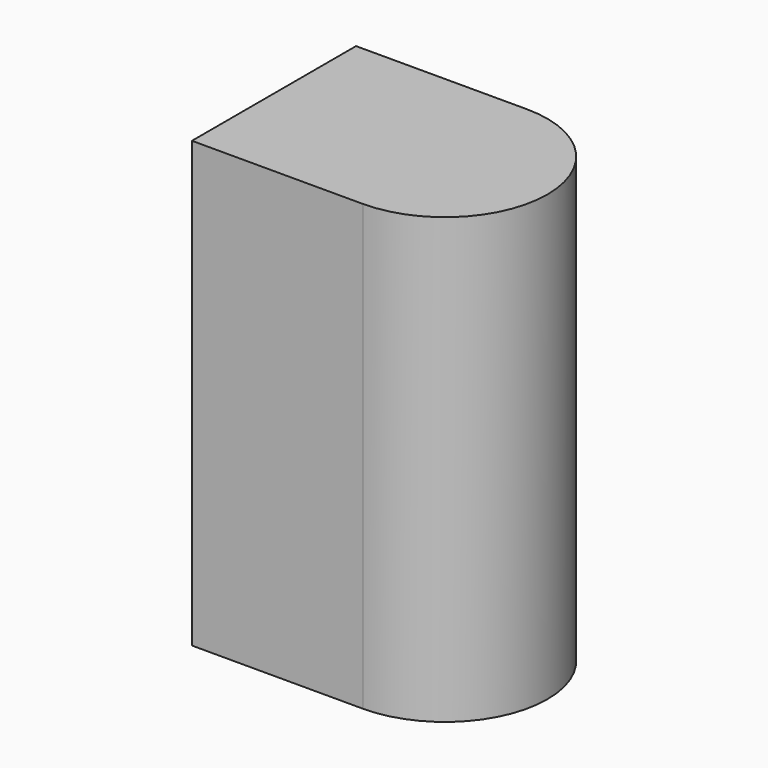
from build123d import *

# Parameters (mm, degrees)
BOX_W             = 10
BOX_H             = 12
BOX_DEPTH         = 26
CYLINDER001_R     = 6
CYLINDER001_DEPTH = 26


with BuildPart() as cube:
    # Box → Box (new body)
    with BuildSketch(Plane(origin=(313.5, -15, 0), x_dir=(1, 0, 0), z_dir=(0, 0, 1))):
        with Locations((5, 6)):
            Rectangle(BOX_W, BOX_H)
    extrude(amount=BOX_DEPTH)


with BuildPart() as cut_probe:
    # Cylinder001 → Cylinder001 (new body)
    with BuildSketch(Plane(origin=(323.5, -9, 0), x_dir=(1, 0, 0), z_dir=(0, 0, 1))):
        Circle(CYLINDER001_R)
    extrude(amount=CYLINDER001_DEPTH)

    # Fusion: union Cube
    add(cube.part)


solid = cut_probe.part
